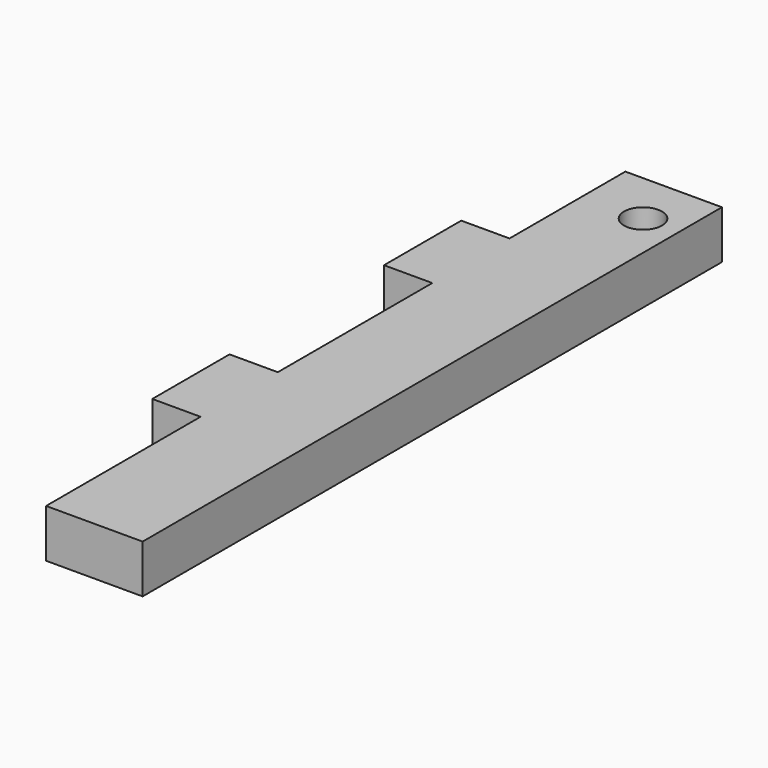
from build123d import *

# Parameters (mm, degrees)
F0_R     = 2.5
F0_W     = 6.35
F0_H     = 12.7
F1_DEPTH = 6.35


with BuildPart() as f1:
    # F0 (on Top) → F1 (new body)
    with BuildSketch(Plane.XY):
        Polygon((0, 25.4), (0, 0), (12.7, 0), (12.7, 95.25), (0, 95.25), (0, 76.2), (0, 63.5), (0, 38.1), align=None)
        with Locations((7.9375, 88.226352)):
            Circle(F0_R, mode=Mode.SUBTRACT)
        with Locations((-3.175, 31.75)):
            Rectangle(F0_W, F0_H)
        with Locations((-3.175, 69.85)):
            Rectangle(F0_W, F0_H)
    extrude(amount=F1_DEPTH)


solid = f1.part
